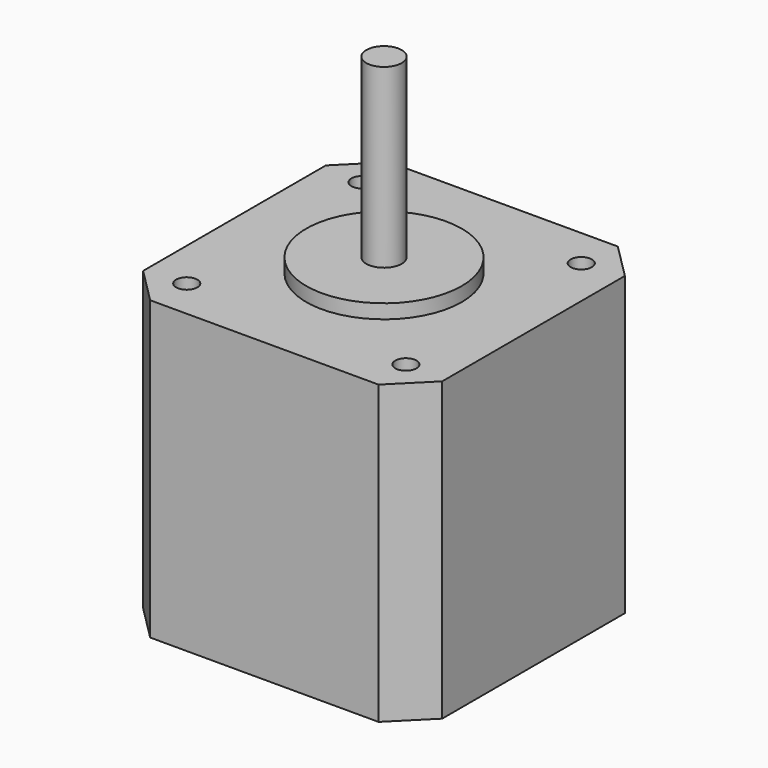
from build123d import *

# Parameters (mm, degrees)
F0_W     = 42.3
F0_H     = 42.3
F0_R     = 1.5
F1_DEPTH = 42
F2_R     = 11
F3_DEPTH = 2
F4_R     = 2.5
F5_DEPTH = 25
F6_SIZE  = 5


with BuildPart() as f1:
    # F0 (on Top) → F1 (new body)
    with BuildSketch(Plane.XY):
        Rectangle(F0_W, F0_H)
        with Locations((-15.5, -15.5)):
            Circle(F0_R, mode=Mode.SUBTRACT)
        with Locations((15.5, -15.5)):
            Circle(F0_R, mode=Mode.SUBTRACT)
        with Locations((-15.5, 15.5)):
            Circle(F0_R, mode=Mode.SUBTRACT)
        with Locations((15.5, 15.5)):
            Circle(F0_R, mode=Mode.SUBTRACT)
    extrude(amount=F1_DEPTH)

    # F2 (on face) → F3 (join)
    with BuildSketch(Plane.XY.offset(42)):
        Circle(F2_R)
    extrude(amount=F3_DEPTH)

    # F4 (on face) → F5 (join)
    with BuildSketch(Plane.XY.offset(44)):
        Circle(F4_R)
    extrude(amount=F5_DEPTH)

    # F6
    f6_edges = [f1.edges().sort_by_distance(p)[0] for p in [
        (-21.15, -21.15, 21),
        (21.15, -21.15, 21),
        (21.15, 21.15, 21),
        (-21.15, 21.15, 21),
    ]]
    chamfer(f6_edges, length=F6_SIZE)


solid = f1.part
